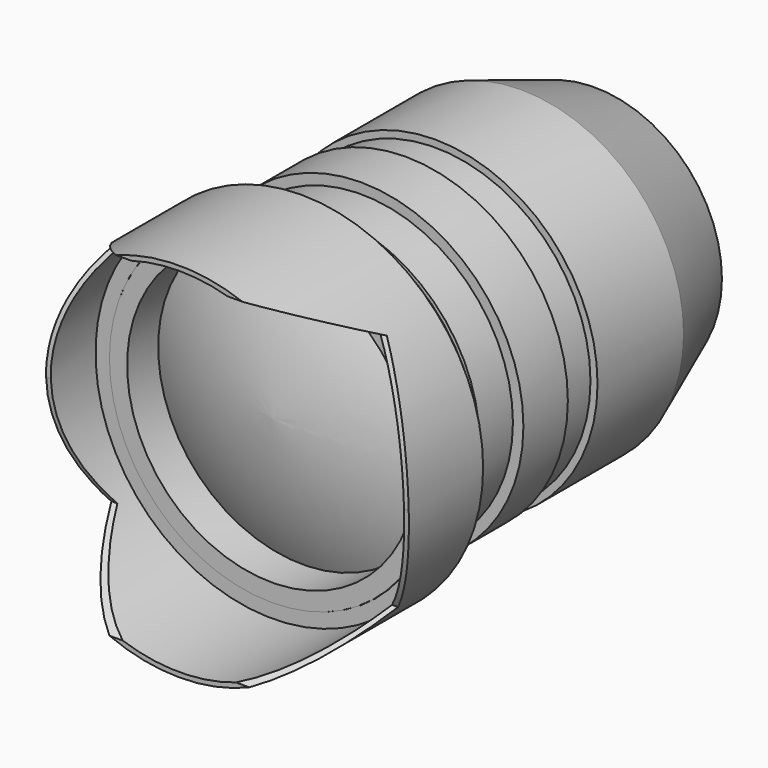
from build123d import *

# Parameters (mm, degrees)
F0_W          = 3.81
F0_H          = 8.382
F4_DEPTH      = 50.8
F4_DEPTH_BACK = 50.8
F5_W          = 11.241811163
F5_H          = 11.9888


with BuildPart() as f2:
    # F0 (on Top) → F2 (revolve)
    with BuildSketch(Plane.XY):
        Polygon((27.432, 0), (0, 0), (0, -19.812), (35.0012, -19.812), align=None)
        with BuildLine():
            Line((35.0012, -19.812), (0, -19.812))
            Line((0, -19.812), (0, -87.0573774754))
            ThreePointArc((0, -87.0573774754), (16.0525781065, -84.6124134733), (31.1912, -78.74))
            Line((31.1912, -78.74), (35.0012, -78.74))
            Line((35.0012, -78.74), (35.0012, -19.812))
        make_face()
        with Locations((33.0962, -82.931)):
            Rectangle(F0_W, F0_H)
    revolve(axis=Axis((0, -75.0442962162, 0), (0, -1, 0)))

    # F5 (on Top) → F6 (revolve, cut)
    with BuildSketch(Plane.XY):
        Polygon((35.5092, -62.992), (32.7406, -62.992), (32.7406, -72.009), (46.751011163, -72.009), (46.751011163, -62.992), align=None)
        with Locations((41.1301055815, -56.9976)):
            Rectangle(F5_W, F5_H)
        Polygon((46.751011163, -72.009), (32.7406, -72.009), (27.94, -72.009), (27.94, -74.93), (46.751011163, -74.93), align=None)
        Polygon((33.4772, -51.0032), (35.5092, -51.0032), (46.751011163, -51.0032), (46.751011163, -43.0022), (33.4772, -43.0022), align=None)
    revolve(axis=Axis((0, -65.7451344887, 0), (0, -1, 0)), mode=Mode.SUBTRACT)


with BuildPart() as f2b:
    # F1 (on Top) → F2, piece 2 (revolve)
    with BuildSketch(Plane.XY):
        Polygon((38.1, -86.995), (38.1, -112.014), (39.116, -112.014), (39.116, -78.994), (35.0364409387, -78.994), (35.0364409387, -86.995), align=None)
    revolve(axis=Axis((0, -75.0442962162, 0), (0, -1, 0)))

    # F3 (on Right) → F4 (cut, two sides)
    with BuildSketch(Plane.YZ) as f4_sk:
        with BuildLine():
            ThreePointArc((-91.694, -23.9623859525), (-96.9932331589, -12.4780205239), (-99.06, 0))
            Line((-99.06, 0), (-117.094, 0))
            Line((-117.094, 0), (-117.094, -39.116))
            Line((-117.094, -39.116), (-91.694, -23.9623859525))
        make_face()
        with BuildLine():
            Line((-117.094, 0), (-99.06, 0))
            ThreePointArc((-99.06, 0), (-97.3904909234, 13.9559885826), (-91.694, 26.8053803593))
            Line((-91.694, 26.8053803593), (-117.094, 39.116))
            Line((-117.094, 39.116), (-117.094, 0))
        make_face()
    extrude(amount=-F4_DEPTH, mode=Mode.SUBTRACT)
    extrude(f4_sk.sketch, amount=F4_DEPTH_BACK, mode=Mode.SUBTRACT)


solid = Compound([f2.part, f2b.part])
